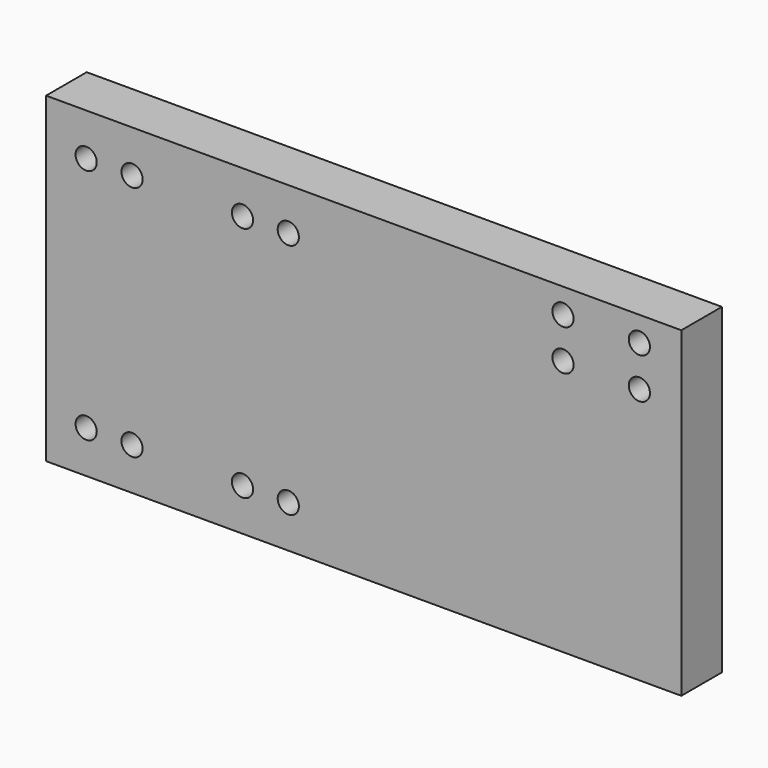
from build123d import *

# Parameters (mm, degrees)
F0_W     = 150.0124
F0_H     = 75.9968
F0_R     = 2.5019
F1_DEPTH = 11.9888


with BuildPart() as f1:
    # F0 (on Front) → F1 (new body)
    with BuildSketch(Plane.XZ):
        Rectangle(F0_W, F0_H)
        with Locations((-65.539271, -27.9908)):
            Circle(F0_R, mode=Mode.SUBTRACT)
        with Locations((-54.713402, -27.9908)):
            Circle(F0_R, mode=Mode.SUBTRACT)
        with Locations((-28.627967, -27.9908)):
            Circle(F0_R, mode=Mode.SUBTRACT)
        with Locations((-17.807567, -27.9908)):
            Circle(F0_R, mode=Mode.SUBTRACT)
        with Locations((-65.539271, 27.9908)):
            Circle(F0_R, mode=Mode.SUBTRACT)
        with Locations((-54.713402, 27.9908)):
            Circle(F0_R, mode=Mode.SUBTRACT)
        with Locations((-28.627967, 27.9908)):
            Circle(F0_R, mode=Mode.SUBTRACT)
        with Locations((-17.807567, 27.9908)):
            Circle(F0_R, mode=Mode.SUBTRACT)
        with Locations((47.062881, 22.5044)):
            Circle(F0_R, mode=Mode.SUBTRACT)
        with Locations((65.101132, 22.5044)):
            Circle(F0_R, mode=Mode.SUBTRACT)
        with Locations((47.062881, 32.127615)):
            Circle(F0_R, mode=Mode.SUBTRACT)
        with Locations((65.101132, 32.127615)):
            Circle(F0_R, mode=Mode.SUBTRACT)
    extrude(amount=F1_DEPTH)


solid = f1.part
